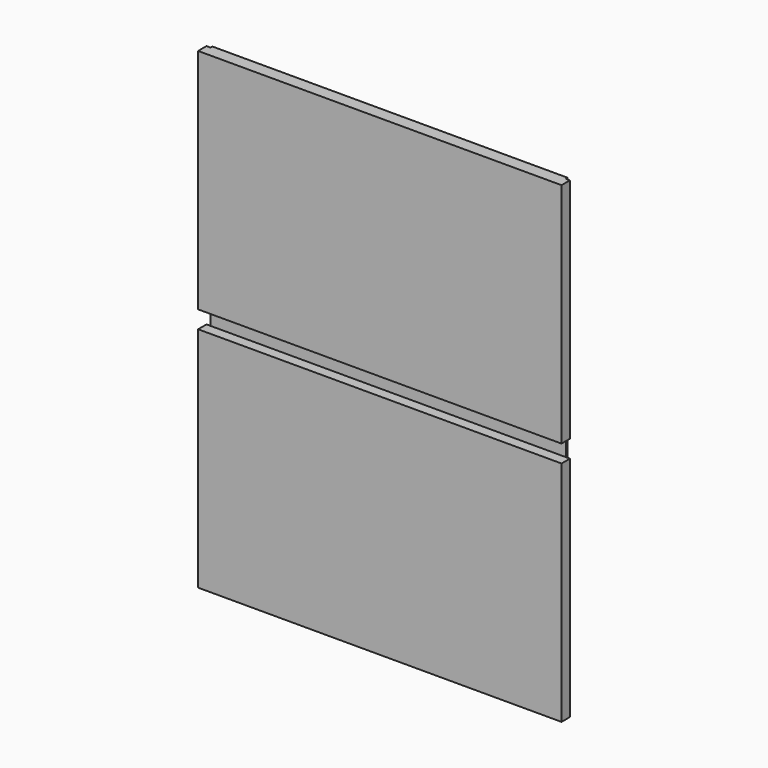
from build123d import *

# Parameters (mm, degrees)
F0_W     = 623
F0_H     = 810
F1_DEPTH = 22
F2_W     = 18
F2_H     = 30
F3_DEPTH = 623
F4_W     = 7
F4_H     = 810
F5_DEPTH = 4


with BuildPart() as f1:
    # F0 (on Front) → F1 (new body)
    with BuildSketch(Plane.XZ):
        Rectangle(F0_W, F0_H)
    extrude(amount=F1_DEPTH)

    # F2 (on face) → F3 (cut)
    with BuildSketch(Plane.YZ.offset(311.5)):
        with Locations((-13, 0)):
            Rectangle(F2_W, F2_H)
    extrude(amount=-F3_DEPTH, mode=Mode.SUBTRACT)

    # F4 (on face) → F5 (cut)
    with BuildSketch(Plane(origin=(0, 0, 0), x_dir=(-1, 0, 0), z_dir=(0, 1, 0))):
        with Locations((-308, 0)):
            Rectangle(F4_W, F4_H)
        with Locations((308, 0)):
            Rectangle(F4_W, F4_H)
    extrude(amount=-F5_DEPTH, mode=Mode.SUBTRACT)


solid = f1.part
